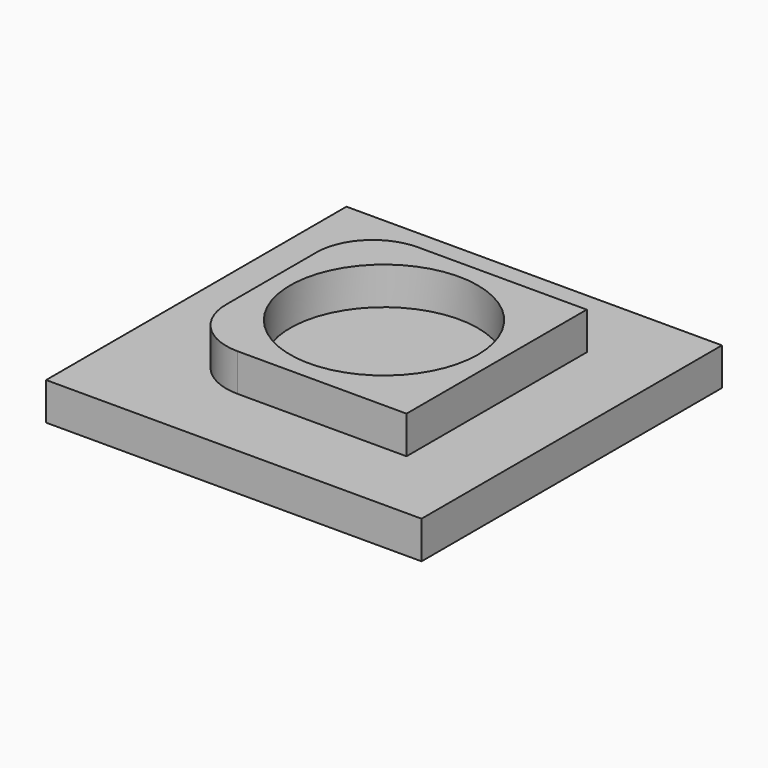
from build123d import *

# Parameters (mm, degrees)
BOX_W          = 100
BOX_H          = 100
BOX_DEPTH      = 10
CYLINDER_R     = 25
CYLINDER_DEPTH = 10
BOX001_W       = 60
BOX001_H       = 60
BOX001_DEPTH   = 10
FILLET_R       = 15


with BuildPart() as cube:
    # Box → Box (new body)
    with BuildSketch(Plane.XY):
        with Locations((50, 50)):
            Rectangle(BOX_W, BOX_H)
    extrude(amount=BOX_DEPTH)


with BuildPart() as cylinder:
    # Cylinder → Cylinder (new body)
    with BuildSketch(Plane(origin=(50, 50, 10), x_dir=(1, 0, 0), z_dir=(0, 0, 1))):
        Circle(CYLINDER_R)
    extrude(amount=CYLINDER_DEPTH)


with BuildPart() as fusion:
    # Box001 → Box001 (new body)
    with BuildSketch(Plane(origin=(20, 20, 10), x_dir=(1, 0, 0), z_dir=(0, 0, 1))):
        with Locations((30, 30)):
            Rectangle(BOX001_W, BOX001_H)
    extrude(amount=BOX001_DEPTH)

    # Fillet
    fillet_edges = [fusion.edges().sort_by_distance(p)[0] for p in [
        (20, 20, 15),
        (20, 80, 15),
    ]]
    fillet(fillet_edges, radius=FILLET_R)

    # Cut: cut Cylinder
    add(cylinder.part, mode=Mode.SUBTRACT)

    # Fusion: union Cube
    add(cube.part)


solid = fusion.part
